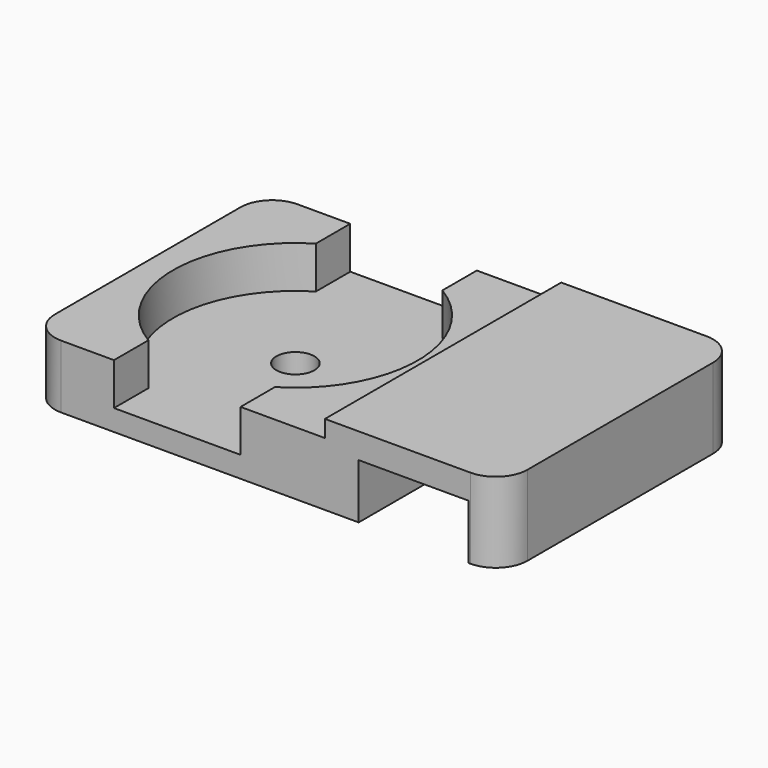
from build123d import *

# Parameters (mm, degrees)
PAD_DEPTH       = 7
SKETCH006_W     = 14
SKETCH006_H     = 14
PAD002_DEPTH    = 3
POCKET004_DEPTH = 2
SKETCH008_R     = 0.9
POCKET005_DEPTH = 1.001
FILLET_R        = 1.5


with BuildPart() as clamp_unit:
    # Sketch → Pad (new body, symmetric)
    with BuildSketch(Plane.XZ):
        Polygon((-2.6, 3.8), (4.2, 3.8), (4.2, 0), (2.6, 0), (2.6, 2.6), (-2.6, 2.6), (-2.6, 0), (-4.2, 0), (-4.2, 3.8), align=None)
    extrude(amount=PAD_DEPTH, both=True)


with BuildPart() as clone006:
    # Sketch006 → Pad002 (new body)
    with BuildSketch(Plane.XY):
        Rectangle(SKETCH006_W, SKETCH006_H)
    extrude(amount=PAD002_DEPTH)

    # Sketch007 → Pocket004 (cut)
    with BuildSketch(Plane.XY.offset(3)):
        with BuildLine():
            Line((-3, 7), (-3, 4.963869))
            ThreePointArc((-3, 4.963869), (-5.8, 0), (-3, -4.963869))
            Line((-3, -7), (-3, -4.963869))
            Line((3, -7), (-3, -7))
            Line((3, -4.963869), (3, -7))
            ThreePointArc((3, -4.963869), (5.8, 0), (3, 4.963869))
            Line((3, 7), (3, 4.963869))
            Line((-3, 7), (3, 7))
        make_face()
    extrude(amount=-POCKET004_DEPTH, mode=Mode.SUBTRACT)

    # Sketch008 → Pocket005 (cut, through all)
    with BuildSketch(Plane.XY.offset(1)):
        Circle(SKETCH008_R)
    extrude(amount=-POCKET005_DEPTH, mode=Mode.SUBTRACT)


with BuildPart() as clone006_1:
    # Clone placement: moved
    add(clone006.part.moved(Location((-11.2, 0, 0))))

    # Fusion: union clamp-unit
    add(clamp_unit.part)

    # Fillet
    fillet_edges = [clone006_1.edges().sort_by_distance(p)[0] for p in [
        (-18.2, -7, 1.5),
        (-18.2, 7, 1.5),
        (4.2, 7, 1.9),
        (4.2, -7, 1.9),
    ]]
    fillet(fillet_edges, radius=FILLET_R)


with BuildPart() as clone006_2:
    # Clone006 placement: moved
    add(clone006_1.part.moved(Location((0, 30, 0))))


solid = clone006_2.part
